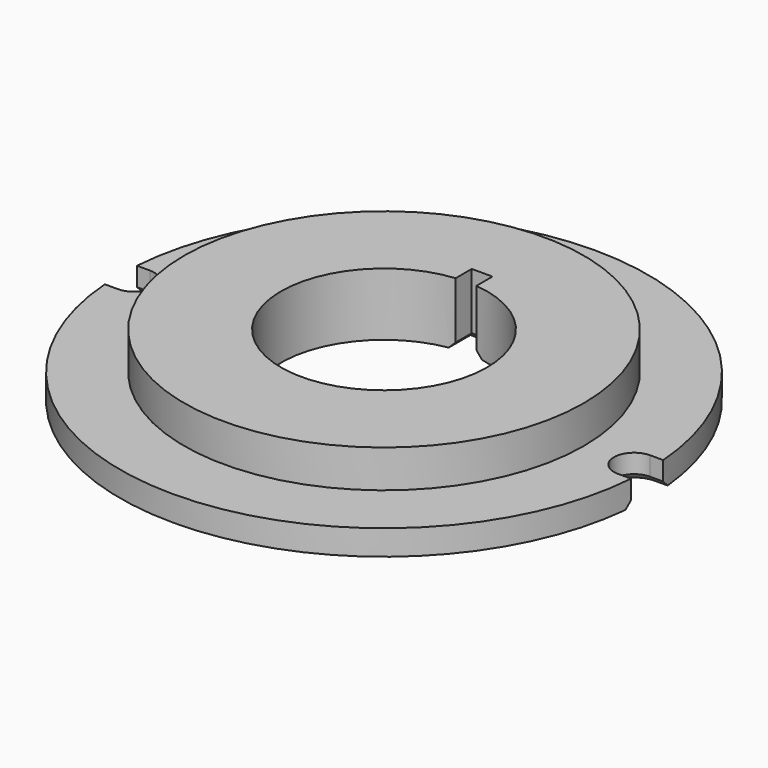
from build123d import *

# Parameters (mm, degrees)
SKETCH_R      = 15.9
PAD_DEPTH     = 5
SKETCH001_R   = 21
SKETCH001_R_2 = 15.9
PAD001_DEPTH  = 2
POCKET_DEPTH  = 5
CHAMFER_SIZE  = 0.5


with BuildPart() as part:
    # Sketch → Pad (new body)
    with BuildSketch(Plane.XY):
        Circle(SKETCH_R)
        with BuildLine():
            Line((0.825, 8.158393), (0.825, 9.758393))
            Line((0.825, 9.758393), (-0.825, 9.758393))
            Line((-0.825, 9.758393), (-0.825, 8.158393))
            ThreePointArc((-0.825, 8.158393), (0, -8.2), (0.825, 8.158393))
        make_face(mode=Mode.SUBTRACT)
    extrude(amount=PAD_DEPTH)

    # Sketch001 → Pad001 (new body)
    with BuildSketch(Plane(origin=(0, 0, 0), x_dir=(1, 0, 0), z_dir=(0, 0, -1))):
        Circle(SKETCH001_R)
        Circle(SKETCH001_R_2, mode=Mode.SUBTRACT)
    extrude(amount=-PAD001_DEPTH)

    # Sketch002 → Pocket (cut)
    with BuildSketch(Plane.XY.offset(2)):
        with BuildLine():
            ThreePointArc((-19.9, -1.6), (-18.3, 0), (-19.9, 1.6))
            Line((-21.9, 1.6), (-19.9, 1.6))
            Line((-21.9, 1.6), (-21.9, -1.6))
            Line((-21.9, -1.6), (-19.9, -1.6))
        make_face()
        with BuildLine():
            ThreePointArc((19.9, 1.6), (18.3, 0), (19.9, -1.6))
            Line((19.9, -1.6), (21.9, -1.6))
            Line((21.9, 1.6), (21.9, -1.6))
            Line((19.9, 1.6), (21.9, 1.6))
        make_face()
    extrude(amount=-POCKET_DEPTH, mode=Mode.SUBTRACT)

    # Chamfer
    chamfer_edges = [part.edges().sort_by_distance(p)[0] for p in [
        (0.825, 8.958393, 0),
        (0, 9.758393, 0),
        (-0.825, 8.958393, 0),
        (-18.3, 0, 0),
        (18.3, 0, 0),
    ]]
    chamfer(chamfer_edges, length=CHAMFER_SIZE)


solid = part.part
